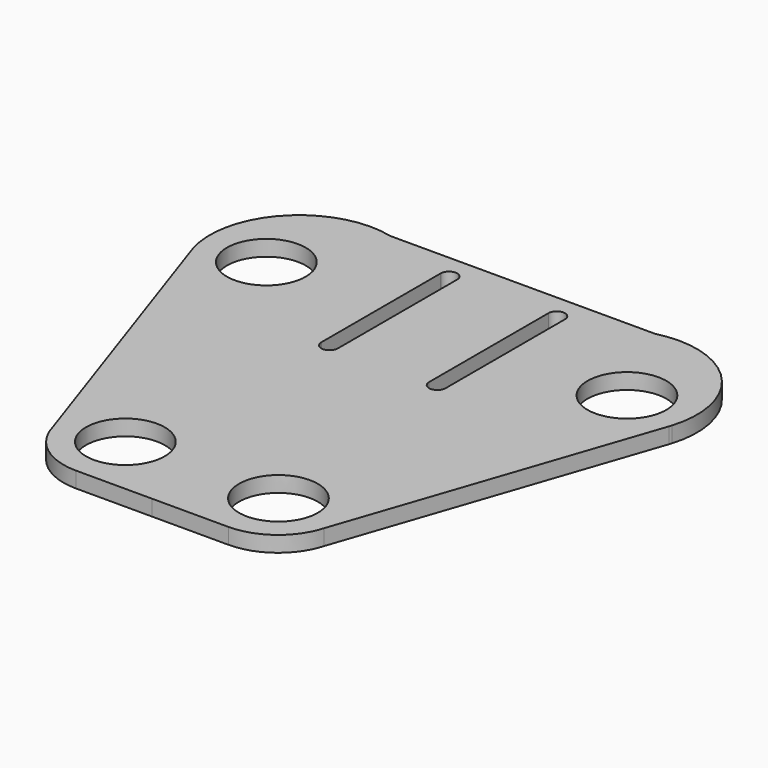
from build123d import *

# Parameters (mm, degrees)
F1_DEPTH = 1.9


with BuildPart() as f1:
    # F0 (on Top) → F1 (new body)
    with BuildSketch(Plane.XY):
        with BuildLine():
            Line((1.0008045885, -20.7168969117), (10.1973045885, -20.7168975789))
            add(Edge.make_bspline(
                [(10.1973045885, -20.7168975789), (13.5432045885, -20.7168975789), (16.4845045885, -18.5004975789), (17.4068045885, -15.2841975789)],
                knots=[0, 0, 0, 0, 1, 1, 1, 1], degree=3))
            Line((17.4068045885, -15.2841975789), (29.8097045885, 21.2609024211))
            ThreePointArc((29.8097045885, 21.2609024211), (29.8565166822, 21.4020276752), (29.9013760294, 21.5437857382))
            ThreePointArc((29.9013760294, 21.5437857382), (27.4322766526, 32.1262911428), (17.0008045885, 35.1710017932))
            Line((17.0008045885, 35.1710017932), (9.0008045885, 35.1710017932))
            Line((9.0008045885, 35.1710017932), (1.0008045885, 35.1710017932))
            Line((1.0008045885, 35.1710017932), (-14.9991954115, 35.1710017932))
            ThreePointArc((-14.9991954115, 35.1710017932), (-25.4306674757, 32.1262911428), (-27.8997668525, 21.5437857382))
            ThreePointArc((-27.8997668525, 21.5437857382), (-27.8549075053, 21.4020276752), (-27.8080954115, 21.2609024211))
            Line((-27.8080954115, 21.2609024211), (-15.4051954115, -15.2841975789))
            add(Edge.make_bspline(
                [(-8.1956954115, -20.7168975789), (-11.5415954115, -20.7168975789), (-14.4828954115, -18.5004975789), (-15.4051954115, -15.2841975789)],
                knots=[0, 0, 0, 0, 1, 1, 1, 1], degree=3))
            Line((-8.1956954115, -20.7168975789), (1.0008045885, -20.7168969117))
        make_face()
        with BuildLine():
            add(Edge.make_bspline(
                [(-12.9844954115, -13.2168975789), (-12.9844954115, -21.4441389148), (-5.8593454115, -17.3305182469), (1.2658045885, -13.2168975789), (-5.8593454115, -9.1032769109), (-12.9844954115, -4.9896562429), (-12.9844954115, -13.2168975789)],
                knots=[0, 0, 0, 2.0943951024, 2.0943951024, 4.1887902048, 4.1887902048, 6.2831853072, 6.2831853072, 6.2831853072], degree=2, weights=[1, 0.5, 1, 0.5, 1, 0.5, 1]))
        make_face(mode=Mode.SUBTRACT)
        with BuildLine():
            add(Edge.make_bspline(
                [(14.9861045885, -13.2168975789), (14.9861045885, -4.9896562429), (7.8609545885, -9.1032769109), (0.7358045885, -13.2168975789), (7.8609545885, -17.3305182469), (14.9861045885, -21.4441389148), (14.9861045885, -13.2168975789)],
                knots=[0, 0, 0, 2.0943951024, 2.0943951024, 4.1887902048, 4.1887902048, 6.2831853072, 6.2831853072, 6.2831853072], degree=2, weights=[1, 0.5, 1, 0.5, 1, 0.5, 1]))
        make_face(mode=Mode.SUBTRACT)
        with BuildLine():
            add(Edge.make_bspline(
                [(-25.5054954115, 23.7027024211), (-25.5054954115, 15.4754610852), (-18.3803454115, 19.5890817531), (-11.2551954115, 23.7027024211), (-18.3803454115, 27.8163230891), (-25.5054954115, 31.9299437571), (-25.5054954115, 23.7027024211)],
                knots=[0, 0, 0, 2.0943951024, 2.0943951024, 4.1887902048, 4.1887902048, 6.2831853072, 6.2831853072, 6.2831853072], degree=2, weights=[1, 0.5, 1, 0.5, 1, 0.5, 1]))
        make_face(mode=Mode.SUBTRACT)
        with BuildLine():
            ThreePointArc((-6.4979511001, 32.2208723713), (-5.474252362, 33.1706906669), (-4.4991954115, 32.1710017932))
            Line((-4.4991954115, 32.1710017932), (-4.4991954115, 14.1710017932))
            ThreePointArc((-4.4991954115, 14.1710017932), (-5.474252362, 13.1713129195), (-6.4979511001, 14.1211312151))
            ThreePointArc((-6.4979511001, 14.1211312151), (-6.4991954115, 14.1710017932), (-6.4979511001, 14.2208723713))
            Line((-6.4979511001, 14.2208723713), (-6.4979511001, 32.1211312151))
            ThreePointArc((-6.4979511001, 32.1211312151), (-6.4991954115, 32.1710017932), (-6.4979511001, 32.2208723713))
        make_face(mode=Mode.SUBTRACT)
        with BuildLine():
            ThreePointArc((6.5008045885, 32.1710017932), (7.5008045885, 33.1710017932), (8.5008045885, 32.1710017932))
            Line((8.5008045885, 32.1710017932), (8.5008045885, 14.1710017932))
            ThreePointArc((8.5008045885, 14.1710017932), (7.5008045885, 13.1710017932), (6.5008045885, 14.1710017932))
            Line((6.5008045885, 14.1710017932), (6.5008045885, 32.1710017932))
        make_face(mode=Mode.SUBTRACT)
        with BuildLine():
            add(Edge.make_bspline(
                [(27.5071045885, 23.7027024211), (27.5071045885, 31.9299437571), (20.3819545885, 27.8163230891), (13.2568045885, 23.7027024211), (20.3819545885, 19.5890817531), (27.5071045885, 15.4754610852), (27.5071045885, 23.7027024211)],
                knots=[0, 0, 0, 2.0943951024, 2.0943951024, 4.1887902048, 4.1887902048, 6.2831853072, 6.2831853072, 6.2831853072], degree=2, weights=[1, 0.5, 1, 0.5, 1, 0.5, 1]))
        make_face(mode=Mode.SUBTRACT)
    extrude(amount=F1_DEPTH)


solid = f1.part
